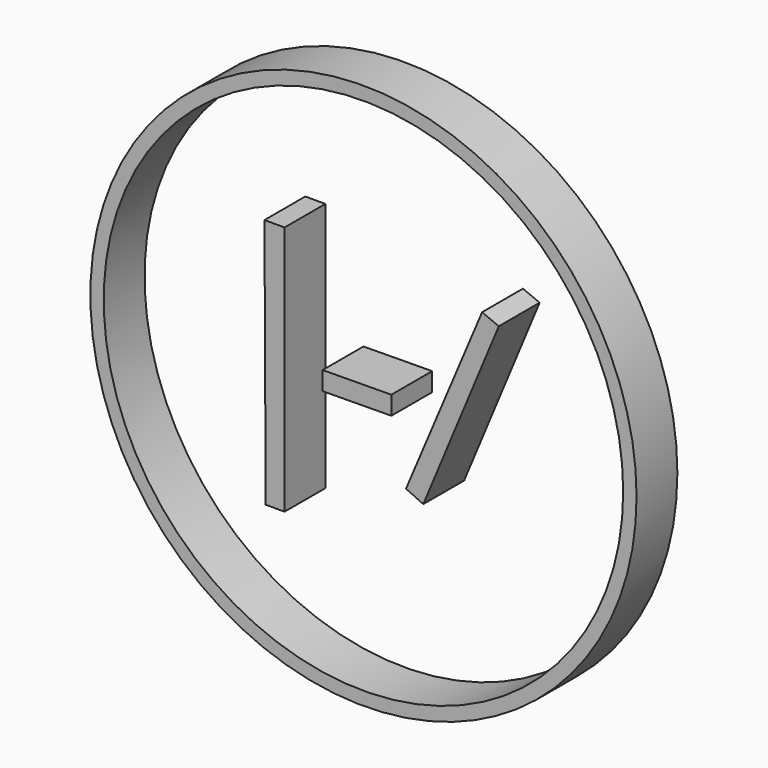
from build123d import *

# Parameters (mm, degrees)
F0_R     = 67.960562
F0_R_2   = 64.635228
F1_DEPTH = 12.7


with BuildPart() as f1:
    # F0 (on Front) → F1 (new body)
    with BuildSketch(Plane.XZ):
        with Locations((1.81155, 0)):
            Circle(F0_R)
        with Locations((1.81155, 0)):
            Circle(F0_R_2, mode=Mode.SUBTRACT)
        Polygon((31.339053, 27.908249), (12.39768, -16.922425), (16.702015, -18.904686), (35.491587, 26.177537), align=None)
        Polygon((8.757327, 2.489706), (-8.346742, 2.329292), (-8.346742, -2.298555), (8.757327, -2.128647), align=None)
        Polygon((-17.819123, 30.483615), (-22.818964, 30.483615), (-22.519909, -31.78807), (-17.819123, -31.78807), align=None)
    extrude(amount=F1_DEPTH)


solid = f1.part
